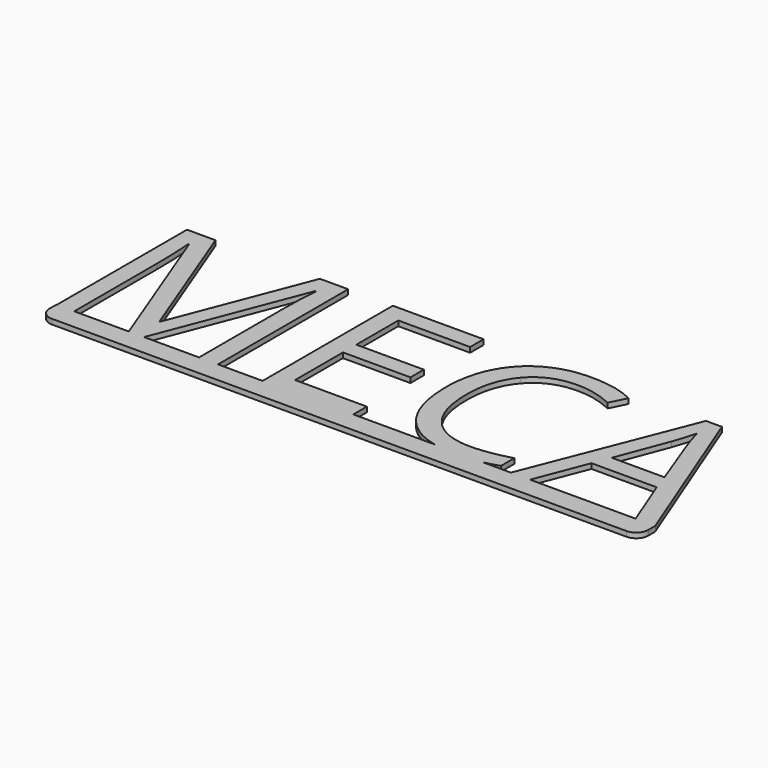
from build123d import *

# Parameters (mm, degrees)
F1_DEPTH = 0.4
F2_R     = 0.9656854249


with BuildPart() as f1:
    # F0 (on Top) → F1 (new body)
    with BuildSketch(Plane.XY):
        with BuildLine():
            Line((2.3177045503, 6.4518758865), (0.0068321246, 6.4518758865))
            add(Edge.make_bspline(
                [(-2.1890329452, 5.7189722991), (-1.2120452677, 6.2824305885), (0.0068321246, 6.4518758865)],
                knots=[0, 0, 0, 0.6992762354, 0.6992762354, 0.6992762354], degree=2))
            add(Edge.make_bspline(
                [(-4.3260845147, 3.4249700569), (-3.5861742008, 4.9131987565), (-2.1890329452, 5.7189722991)],
                knots=[0, 0, 0, 1, 1, 1], degree=2))
            add(Edge.make_bspline(
                [(-5.0659948286, -0.0419581942), (-5.0659948286, 1.9367413574), (-4.3260845147, 3.4249700569)],
                knots=[0, 0, 0, 1, 1, 1], degree=2))
            add(Edge.make_bspline(
                [(-3.5287190438, -4.9214424991), (-5.0659948286, -3.2033931718), (-5.0659948286, -0.0419581942)],
                knots=[0, 0, 0, 1, 1, 1], degree=2))
            add(Edge.make_bspline(
                [(-0.8440462353, -6.4629223198), (-2.48426723, -6.0887149912), (-3.5287190438, -4.9214424991)],
                knots=[0.3205826669, 0.3205826669, 0.3205826669, 1, 1, 1], degree=2))
            Line((-0.8440462353, -6.4629223198), (-0.101907946, -6.4629223198))
            Line((-0.101907946, -6.4629223198), (2.9353164681, -6.4629223198))
            add(Edge.make_bspline(
                [(4.1212249023, -6.1378102121), (3.5797384986, -6.3418650885), (2.9353164681, -6.4629223198)],
                knots=[0, 0, 0, 0.406741787, 0.406741787, 0.406741787], degree=2))
            Line((4.1212249023, -6.1378102121), (4.1212249023, -4.8345590911))
            add(Edge.make_bspline(
                [(1.0634894763, -5.3166218713), (2.403175575, -5.3166218713), (4.1212249023, -4.8345590911)],
                knots=[0, 0, 0, 1, 1, 1], degree=2))
            add(Edge.make_bspline(
                [(-2.2955351873, -3.944704831), (-1.1170037972, -5.3166218713), (1.0634894763, -5.3166218713)],
                knots=[0, 0, 0, 1, 1, 1], degree=2))
            add(Edge.make_bspline(
                [(-3.4740665775, -0.0615770283), (-3.4740665775, -2.5727877906), (-2.2955351873, -3.944704831)],
                knots=[0, 0, 0, 1, 1, 1], degree=2))
            add(Edge.make_bspline(
                [(-2.2520934833, 3.7879184874), (-3.4740665775, 2.3823691601), (-3.4740665775, -0.0615770283)],
                knots=[0, 0, 0, 1, 1, 1], degree=2))
            add(Edge.make_bspline(
                [(1.0803056198, 5.1934678148), (-1.0301203891, 5.1934678148), (-2.2520934833, 3.7879184874)],
                knots=[0, 0, 0, 1, 1, 1], degree=2))
            add(Edge.make_bspline(
                [(3.9894984449, 4.5124140031), (2.5349020324, 5.1934678148), (1.0803056198, 5.1934678148)],
                knots=[0, 0, 0, 1, 1, 1], degree=2))
            Line((3.9894984449, 4.5124140031), (4.6201038261, 5.7904409089))
            add(Edge.make_bspline(
                [(2.3177045503, 6.4518758865), (3.587256127, 6.2934262197), (4.6201038261, 5.7904409089)],
                knots=[0.3150184776, 0.3150184776, 0.3150184776, 1, 1, 1], degree=2))
        make_face()
        Polygon((-10.8601368731, -6.4629223198), (-7.2380800304, -6.4629223198), (-7.2380800304, -5.1316442929), (-12.8883042456, -5.1316442929), (-12.8883042456, -0.4203214229), (-7.5800082815, -0.4203214229), (-7.5800082815, 0.8941404605), (-12.8883042456, 0.8941404605), (-12.8883042456, 5.0197009986), (-7.2380800304, 5.0197009986), (-7.2380800304, 6.3425709538), (-14.3765329452, 6.3425709538), (-14.3765329452, -6.4629223198), (-12.6325140038, -6.4629223198), align=None)
        with BuildLine():
            Line((-19.3765329452, -6.4629223198), (-17.8883042456, -6.4629223198))
            Line((-17.8883042456, -6.4629223198), (-17.8883042456, 6.3425709538))
            Line((-17.8883042456, 6.3425709538), (-20.1136405685, 6.3425709538))
            Line((-20.1136405685, 6.3425709538), (-24.2027661291, -4.2207698534))
            Line((-24.2027661291, -4.2207698534), (-24.2728333936, -4.2207698534))
            Line((-24.2728333936, -4.2207698534), (-28.3283266672, 6.3425709538))
            Line((-28.3283266672, 6.3425709538), (-30.5704791335, 6.3425709538))
            Line((-30.5704791335, 6.3425709538), (-30.5704791335, -6.4629223198))
            Line((-30.5704791335, -6.4629223198), (-29.1943580573, -6.4629223198))
            Line((-29.1943580573, -6.4629223198), (-29.1943580573, 1.6816965143))
            add(Edge.make_bspline(
                [(-29.317676443, 4.8879745412), (-29.1943580573, 3.5398803708), (-29.1943580573, 1.6816965143)],
                knots=[0, 0, 0, 1, 1, 1], degree=2))
            Line((-29.317676443, 4.8879745412), (-29.2476091784, 4.8879745412))
            Line((-29.2476091784, 4.8879745412), (-24.9034387748, -6.4629223198))
            Line((-24.9034387748, -6.4629223198), (-23.7038872053, -6.4629223198))
            Line((-23.7038872053, -6.4629223198), (-19.3232818241, 4.8711583977))
            Line((-19.3232818241, 4.8711583977), (-19.2532145595, 4.8711583977))
            add(Edge.make_bspline(
                [(-19.3765329452, 1.7881987565), (-19.3765329452, 3.2063601914), (-19.2532145595, 4.8711583977)],
                knots=[0, 0, 0, 1, 1, 1], degree=2))
            Line((-19.3765329452, 1.7881987565), (-19.3765329452, -6.4629223198))
        make_face()
        Polygon((10.2170769203, 6.3958220748), (5.1554177275, -6.4629223198), (6.6632652611, -6.4629223198), (8.2383773687, -2.3906129027), (13.3701038261, -2.3906129027), (14.9648347678, -6.4629223198), (16.5063145884, -6.4629223198), (11.4698796109, 6.3958220748), align=None)
        with BuildLine():
            Line((11.4166284898, 2.9176830614), (12.9076598799, -1.0509268041))
            Line((12.9076598799, -1.0509268041), (8.7652831983, -1.0509268041))
            Line((8.7652831983, -1.0509268041), (10.2703280414, 2.9176830614))
            add(Edge.make_bspline(
                [(10.8224580862, 4.7646561556), (10.629072436, 3.9238489807), (10.2703280414, 2.9176830614)],
                knots=[0, 0, 0, 1, 1, 1], degree=2))
            add(Edge.make_bspline(
                [(11.4166284898, 2.9176830614), (11.1279513597, 3.6716068282), (10.8224580862, 4.7646561556)],
                knots=[0, 0, 0, 1, 1, 1], degree=2))
        make_face(mode=Mode.SUBTRACT)
        with BuildLine():
            add(Edge.make_bspline(
                [(0.0068321246, 6.4518758865), (0.5310103813, 6.5247458417), (1.0999244539, 6.5247458417)],
                knots=[0.6992762354, 0.6992762354, 0.6992762354, 1, 1, 1], degree=2))
            Line((0.0068321246, 6.4518758865), (2.3177045503, 6.4518758865))
            add(Edge.make_bspline(
                [(1.0999244539, 6.5247458417), (1.7338461661, 6.5247458417), (2.3177045503, 6.4518758865)],
                knots=[0, 0, 0, 0.3150184776, 0.3150184776, 0.3150184776], degree=2))
        make_face()
        with BuildLine():
            Line((2.3177045503, 6.4518758865), (0.0068321246, 6.4518758865))
            add(Edge.make_bspline(
                [(-2.1890329452, 5.7189722991), (-1.2120452677, 6.2824305885), (0.0068321246, 6.4518758865)],
                knots=[0, 0, 0, 0.6992762354, 0.6992762354, 0.6992762354], degree=2))
            add(Edge.make_bspline(
                [(-4.3260845147, 3.4249700569), (-3.5861742008, 4.9131987565), (-2.1890329452, 5.7189722991)],
                knots=[0, 0, 0, 1, 1, 1], degree=2))
            add(Edge.make_bspline(
                [(-5.0659948286, -0.0419581942), (-5.0659948286, 1.9367413574), (-4.3260845147, 3.4249700569)],
                knots=[0, 0, 0, 1, 1, 1], degree=2))
            add(Edge.make_bspline(
                [(-3.5287190438, -4.9214424991), (-5.0659948286, -3.2033931718), (-5.0659948286, -0.0419581942)],
                knots=[0, 0, 0, 1, 1, 1], degree=2))
            add(Edge.make_bspline(
                [(-0.8440462353, -6.4629223198), (-2.48426723, -6.0887149912), (-3.5287190438, -4.9214424991)],
                knots=[0.3205826669, 0.3205826669, 0.3205826669, 1, 1, 1], degree=2))
            Line((-0.8440462353, -6.4629223198), (-0.101907946, -6.4629223198))
            Line((-0.101907946, -6.4629223198), (2.9353164681, -6.4629223198))
            add(Edge.make_bspline(
                [(4.1212249023, -6.1378102121), (3.5797384986, -6.3418650885), (2.9353164681, -6.4629223198)],
                knots=[0, 0, 0, 0.406741787, 0.406741787, 0.406741787], degree=2))
            Line((4.1212249023, -6.1378102121), (4.1212249023, -4.8345590911))
            add(Edge.make_bspline(
                [(1.0634894763, -5.3166218713), (2.403175575, -5.3166218713), (4.1212249023, -4.8345590911)],
                knots=[0, 0, 0, 1, 1, 1], degree=2))
            add(Edge.make_bspline(
                [(-2.2955351873, -3.944704831), (-1.1170037972, -5.3166218713), (1.0634894763, -5.3166218713)],
                knots=[0, 0, 0, 1, 1, 1], degree=2))
            add(Edge.make_bspline(
                [(-3.4740665775, -0.0615770283), (-3.4740665775, -2.5727877906), (-2.2955351873, -3.944704831)],
                knots=[0, 0, 0, 1, 1, 1], degree=2))
            add(Edge.make_bspline(
                [(-2.2520934833, 3.7879184874), (-3.4740665775, 2.3823691601), (-3.4740665775, -0.0615770283)],
                knots=[0, 0, 0, 1, 1, 1], degree=2))
            add(Edge.make_bspline(
                [(1.0803056198, 5.1934678148), (-1.0301203891, 5.1934678148), (-2.2520934833, 3.7879184874)],
                knots=[0, 0, 0, 1, 1, 1], degree=2))
            add(Edge.make_bspline(
                [(3.9894984449, 4.5124140031), (2.5349020324, 5.1934678148), (1.0803056198, 5.1934678148)],
                knots=[0, 0, 0, 1, 1, 1], degree=2))
            Line((3.9894984449, 4.5124140031), (4.6201038261, 5.7904409089))
            add(Edge.make_bspline(
                [(2.3177045503, 6.4518758865), (3.587256127, 6.2934262197), (4.6201038261, 5.7904409089)],
                knots=[0.3150184776, 0.3150184776, 0.3150184776, 1, 1, 1], degree=2))
        make_face()
        with BuildLine():
            add(Edge.make_bspline(
                [(-0.1528043431, -6.582261177), (-0.5107269616, -6.5389672645), (-0.8440462353, -6.4629223198)],
                knots=[0.1825141428, 0.1825141428, 0.1825141428, 0.3205826669, 0.3205826669, 0.3205826669], degree=2))
            Line((-0.8440462353, -6.4629223198), (-7.2380800304, -6.4629223198))
            Line((-7.2380800304, -6.4629223198), (-10.8601368731, -6.4629223198))
            Line((-10.8601368731, -6.4629223198), (-12.6325140038, -6.4629223198))
            Line((-12.6325140038, -6.4629223198), (-14.3765329452, -6.4629223198))
            Line((-14.3765329452, -6.4629223198), (-17.8883042456, -6.4629223198))
            Line((-17.8883042456, -6.4629223198), (-19.3765329452, -6.4629223198))
            Line((-19.3765329452, -6.4629223198), (-23.7038872053, -6.4629223198))
            Line((-23.7038872053, -6.4629223198), (-24.9034387748, -6.4629223198))
            Line((-24.9034387748, -6.4629223198), (-29.1943580573, -6.4629223198))
            Line((-29.1943580573, -6.4629223198), (-30.5704791335, -6.4629223198))
            Line((-30.5704791335, -6.4629223198), (-30.6066181511, -6.4629223198))
            Line((-30.6066181511, -6.4629223198), (-30.6066181511, -8.0955233425))
            Line((-30.6066181511, -8.0955233425), (16.5128931403, -8.0955233425))
            Line((16.5128931403, -8.0955233425), (16.5128931403, -6.4629223198))
            Line((16.5128931403, -6.4629223198), (16.5063145884, -6.4629223198))
            Line((16.5063145884, -6.4629223198), (14.9648347678, -6.4629223198))
            Line((14.9648347678, -6.4629223198), (6.6632652611, -6.4629223198))
            Line((6.6632652611, -6.4629223198), (5.1554177275, -6.4629223198))
            Line((5.1554177275, -6.4629223198), (2.9353164681, -6.4629223198))
            add(Edge.make_bspline(
                [(2.9353164681, -6.4629223198), (1.9953868262, -6.6394918265), (0.8364715391, -6.6394918265)],
                knots=[0.406741787, 0.406741787, 0.406741787, 1, 1, 1], degree=2))
            add(Edge.make_bspline(
                [(0.8364715391, -6.6394918265), (0.3203370938, -6.6394918265), (-0.1528043431, -6.582261177)],
                knots=[0, 0, 0, 0.1825141428, 0.1825141428, 0.1825141428], degree=2))
        make_face()
        with BuildLine():
            Line((-0.101907946, -6.4629223198), (-0.8440462353, -6.4629223198))
            add(Edge.make_bspline(
                [(-0.1528043431, -6.582261177), (-0.5107269616, -6.5389672645), (-0.8440462353, -6.4629223198)],
                knots=[0.1825141428, 0.1825141428, 0.1825141428, 0.3205826669, 0.3205826669, 0.3205826669], degree=2))
            Line((-0.1528043431, -6.582261177), (-0.101907946, -6.4629223198))
        make_face()
        Polygon((-10.8601368731, -6.4629223198), (-7.2380800304, -6.4629223198), (-7.2380800304, -5.1316442929), (-12.8883042456, -5.1316442929), (-12.8883042456, -0.4203214229), (-7.5800082815, -0.4203214229), (-7.5800082815, 0.8941404605), (-12.8883042456, 0.8941404605), (-12.8883042456, 5.0197009986), (-7.2380800304, 5.0197009986), (-7.2380800304, 6.3425709538), (-14.3765329452, 6.3425709538), (-14.3765329452, -6.4629223198), (-12.6325140038, -6.4629223198), align=None)
        with BuildLine():
            Line((2.9353164681, -6.4629223198), (-0.101907946, -6.4629223198))
            Line((-0.101907946, -6.4629223198), (-0.1528043431, -6.582261177))
            add(Edge.make_bspline(
                [(0.8364715391, -6.6394918265), (0.3203370938, -6.6394918265), (-0.1528043431, -6.582261177)],
                knots=[0, 0, 0, 0.1825141428, 0.1825141428, 0.1825141428], degree=2))
            add(Edge.make_bspline(
                [(2.9353164681, -6.4629223198), (1.9953868262, -6.6394918265), (0.8364715391, -6.6394918265)],
                knots=[0.406741787, 0.406741787, 0.406741787, 1, 1, 1], degree=2))
        make_face()
        Polygon((10.2170769203, 6.3958220748), (5.1554177275, -6.4629223198), (6.6632652611, -6.4629223198), (8.2383773687, -2.3906129027), (13.3701038261, -2.3906129027), (14.9648347678, -6.4629223198), (16.5063145884, -6.4629223198), (11.4698796109, 6.3958220748), align=None)
        with BuildLine():
            Line((11.4166284898, 2.9176830614), (12.9076598799, -1.0509268041))
            Line((12.9076598799, -1.0509268041), (8.7652831983, -1.0509268041))
            Line((8.7652831983, -1.0509268041), (10.2703280414, 2.9176830614))
            add(Edge.make_bspline(
                [(10.8224580862, 4.7646561556), (10.629072436, 3.9238489807), (10.2703280414, 2.9176830614)],
                knots=[0, 0, 0, 1, 1, 1], degree=2))
            add(Edge.make_bspline(
                [(11.4166284898, 2.9176830614), (11.1279513597, 3.6716068282), (10.8224580862, 4.7646561556)],
                knots=[0, 0, 0, 1, 1, 1], degree=2))
        make_face(mode=Mode.SUBTRACT)
        with BuildLine():
            Line((-19.3765329452, -6.4629223198), (-17.8883042456, -6.4629223198))
            Line((-17.8883042456, -6.4629223198), (-17.8883042456, 6.3425709538))
            Line((-17.8883042456, 6.3425709538), (-20.1136405685, 6.3425709538))
            Line((-20.1136405685, 6.3425709538), (-24.2027661291, -4.2207698534))
            Line((-24.2027661291, -4.2207698534), (-24.2728333936, -4.2207698534))
            Line((-24.2728333936, -4.2207698534), (-28.3283266672, 6.3425709538))
            Line((-28.3283266672, 6.3425709538), (-30.5704791335, 6.3425709538))
            Line((-30.5704791335, 6.3425709538), (-30.5704791335, -6.4629223198))
            Line((-30.5704791335, -6.4629223198), (-29.1943580573, -6.4629223198))
            Line((-29.1943580573, -6.4629223198), (-29.1943580573, 1.6816965143))
            add(Edge.make_bspline(
                [(-29.317676443, 4.8879745412), (-29.1943580573, 3.5398803708), (-29.1943580573, 1.6816965143)],
                knots=[0, 0, 0, 1, 1, 1], degree=2))
            Line((-29.317676443, 4.8879745412), (-29.2476091784, 4.8879745412))
            Line((-29.2476091784, 4.8879745412), (-24.9034387748, -6.4629223198))
            Line((-24.9034387748, -6.4629223198), (-23.7038872053, -6.4629223198))
            Line((-23.7038872053, -6.4629223198), (-19.3232818241, 4.8711583977))
            Line((-19.3232818241, 4.8711583977), (-19.2532145595, 4.8711583977))
            add(Edge.make_bspline(
                [(-19.3765329452, 1.7881987565), (-19.3765329452, 3.2063601914), (-19.2532145595, 4.8711583977)],
                knots=[0, 0, 0, 1, 1, 1], degree=2))
            Line((-19.3765329452, 1.7881987565), (-19.3765329452, -6.4629223198))
        make_face()
    extrude(amount=F1_DEPTH)

    # F2
    f2_edges = [f1.edges().sort_by_distance(p)[0] for p in [
        (-30.606618, -8.095523, 0.2),
        (16.512893, -8.095523, 0.2),
    ]]
    fillet(f2_edges, radius=F2_R)


solid = f1.part
